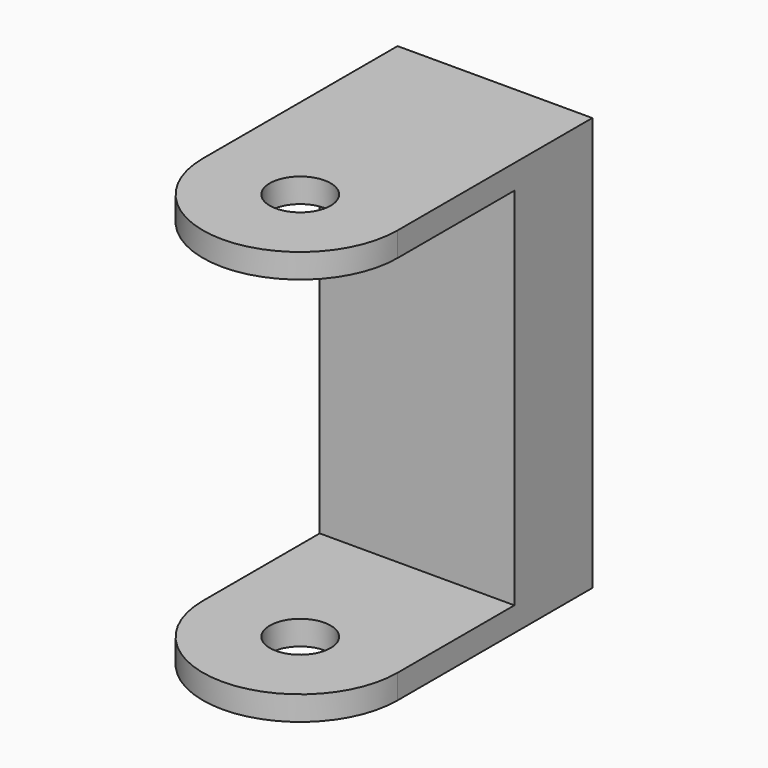
from build123d import *

# Parameters (mm, degrees)
F0_W     = 50.8
F0_H     = 63.5
F1_DEPTH = 53.975
F3_DEPTH = 50.801
F4_R     = 7.9375
F5_DEPTH = 107.951


with BuildPart() as f1:
    # F0 (on Top) → F1 (new body, symmetric)
    with BuildSketch(Plane.XY):
        with Locations((0, 31.75)):
            Rectangle(F0_W, F0_H)
        with BuildLine():
            Line((25.4, 0), (-25.4, 0))
            ThreePointArc((-25.4, 0), (0, -25.4), (25.4, 0))
        make_face()
    extrude(amount=F1_DEPTH, both=True)

    # F2 (on face) → F3 (cut, through all)
    with BuildSketch(Plane.YZ.offset(25.4)):
        Polygon((0, 0), (0, 47.625), (-25.4, 47.625), (-25.4, -47.625), (0, -47.625), align=None)
        Polygon((38.1, -47.625), (38.1, 47.625), (0, 47.625), (0, 0), (0, -47.625), align=None)
    extrude(amount=-F3_DEPTH, mode=Mode.SUBTRACT)

    # F4 (on face) → F5 (cut, through all)
    with BuildSketch(Plane.XY.offset(53.975)):
        Circle(F4_R)
    extrude(amount=-F5_DEPTH, mode=Mode.SUBTRACT)


solid = f1.part
